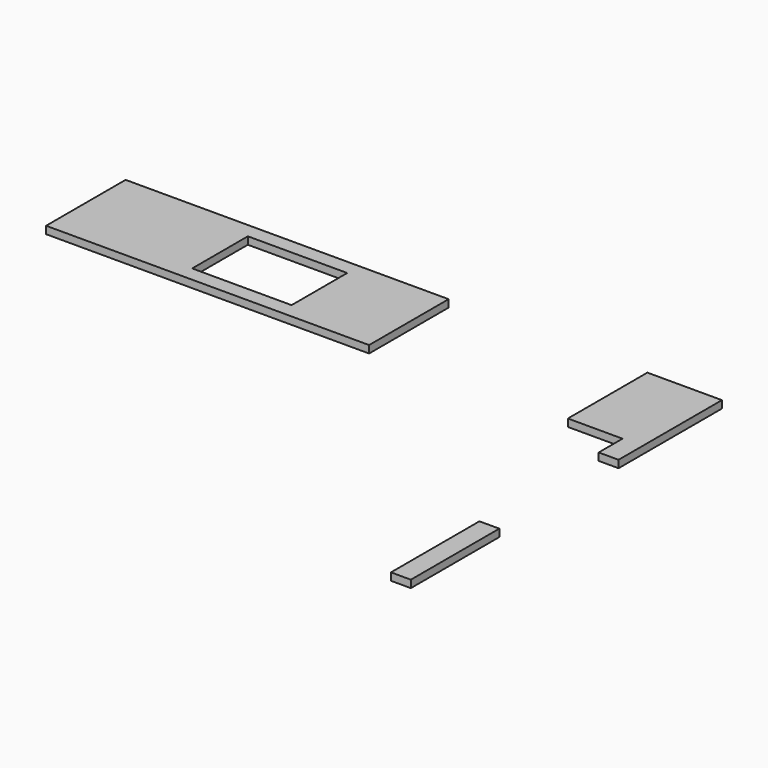
from build123d import *

# Parameters (mm, degrees)
F0_W     = 1651
F0_H     = 508
F0_W_2   = 101.6
F0_H_2   = 565.15
F1_DEPTH = 38.1
F2_W     = 508
F2_H     = 355.6
F3_DEPTH = 38.1


with BuildPart() as f1:
    # F0 (on Top) → F1 (new body)
    with BuildSketch(Plane.XY):
        Rectangle(F0_W, F0_H)
        Polygon((2222.5, 254), (1841.5, 254), (1841.5, -254), (2120.9, -254), (2120.9, -406.4), (2222.5, -406.4), align=None)
        with Locations((2171.7, -1450.975)):
            Rectangle(F0_W_2, F0_H_2)
    extrude(amount=F1_DEPTH)

    # F2 (on face) → F3 (cut)
    with BuildSketch(Plane.XY.offset(38.1)):
        with Locations((114.3, 0)):
            Rectangle(F2_W, F2_H)
    extrude(amount=-F3_DEPTH, mode=Mode.SUBTRACT)


solid = f1.part
